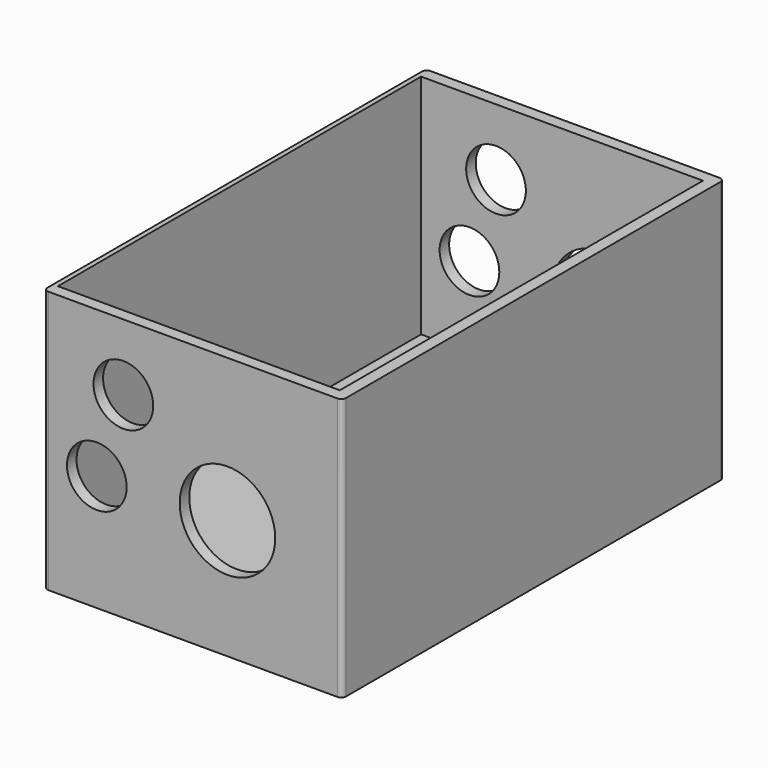
from build123d import *

# Parameters (mm, degrees)
F0_W      = 125
F0_H      = 110
F1_DEPTH  = 200
F2_W      = 115.000002
F2_H      = 190.000002
F3_DEPTH  = 95
F4_R      = 2
F5_R      = 20
F7_DEPTH  = 200.001
F6_R      = 12.5
F8_DEPTH  = 200.001
F9_W      = 3
F9_H      = 190.000002
F10_DEPTH = 95


with BuildPart() as f1:
    # F0 (on Front) → F1 (new body)
    with BuildSketch(Plane.XZ):
        with Locations((62.5, 55)):
            Rectangle(F0_W, F0_H)
    extrude(amount=F1_DEPTH)

    # F2 (on face) → F3 (cut)
    with BuildSketch(Plane.XY.offset(110)):
        with Locations((62.500001, -100.000001)):
            Rectangle(F2_W, F2_H)
    extrude(amount=-F3_DEPTH, mode=Mode.SUBTRACT)

    # F4
    f4_edges = [f1.edges().sort_by_distance(p)[0] for p in [
        (125, 0, 55),
        (0, 0, 55),
        (125, -200, 55),
        (0, -200, 55),
    ]]
    fillet(f4_edges, radius=F4_R)

    # F5 (on face) → F7 (cut, through all)
    with BuildSketch(Plane.XZ.offset(200)):
        with Locations((76.975974, 50)):
            Circle(F5_R)
    extrude(amount=-F7_DEPTH, mode=Mode.SUBTRACT)

    # F6 (on face) → F8 (cut, through all)
    with BuildSketch(Plane.XZ.offset(200)):
        with Locations((22.27135, 48.594251)):
            Circle(F6_R)
        with Locations((33.396717, 82.181148)):
            Circle(F6_R)
    extrude(amount=-F8_DEPTH, mode=Mode.SUBTRACT)

    # F9 (on face) → F10 (cut, through all)
    with BuildSketch(Plane.XY.offset(110)):
        with Locations((3.5, -100.000001)):
            Rectangle(F9_W, F9_H)
    extrude(amount=-F10_DEPTH, mode=Mode.SUBTRACT)


solid = f1.part
